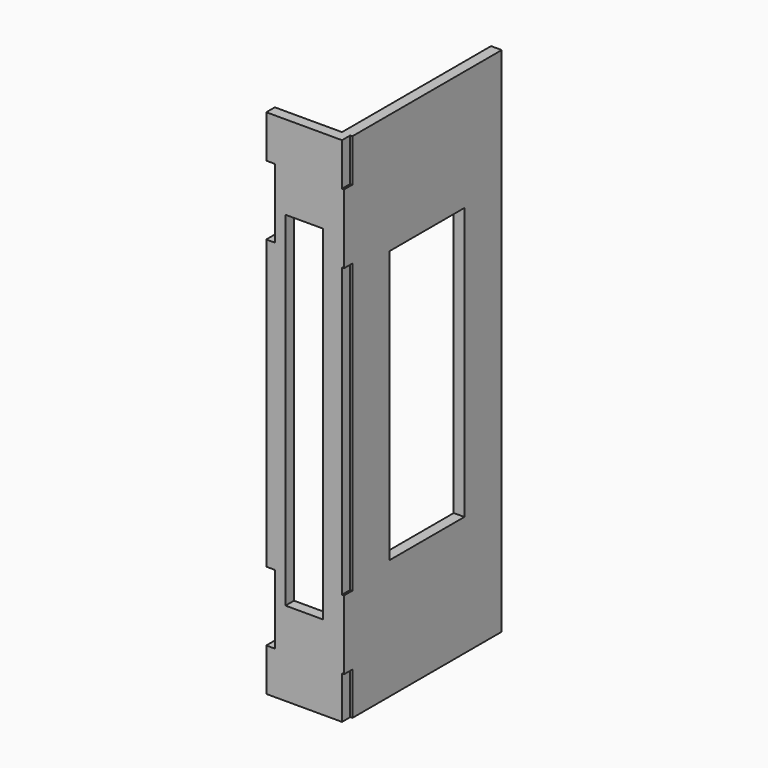
from build123d import *

# Parameters (mm, degrees)
F0_W     = 22.225
F0_H     = 204.7875
F1_DEPTH = 6.35
F3_W     = 55.5625
F3_H     = 161.925
F4_DEPTH = 6.35


with BuildPart() as f1:
    # F0 (on Front) → F1 (new body)
    with BuildSketch(Plane.XZ):
        Polygon((17.4625, 152.4), (-17.4625, 152.4), (-22.5425, 152.4), (-22.5425, 127), (-17.4625, 127), (-17.4625, 85.725), (-22.5425, 85.725), (-22.5425, 0), (-22.5425, -85.725), (-17.4625, -85.725), (-17.4625, -127), (-22.5425, -127), (-22.5425, -152.4), (-17.4625, -152.4), (17.4625, -152.4), (22.5425, -152.4), (22.5425, -127), (17.4625, -127), (17.4625, -85.725), (22.5425, -85.725), (22.5425, 0), (22.5425, 85.725), (17.4625, 85.725), (17.4625, 127), (22.5425, 127), (22.5425, 152.4), align=None)
        Rectangle(F0_W, F0_H, mode=Mode.SUBTRACT)
    extrude(amount=F1_DEPTH)

    # F3 (on offset) → F4 (join)
    with BuildSketch(Plane.YZ.offset(17.4625)):
        Polygon((110.8964, -152.4), (110.8964, 152.4), (-0.2286, 152.4), (-0.2286, 127), (-6.35, 127), (-6.35, 85.725), (-0.2286, 85.725), (-0.2286, -85.725), (-6.35, -85.725), (-6.35, -127), (-0.2286, -127), (-0.2286, -152.4), align=None)
        with Locations((55.3339, 0)):
            Rectangle(F3_W, F3_H, mode=Mode.SUBTRACT)
    extrude(amount=F4_DEPTH)


solid = f1.part
